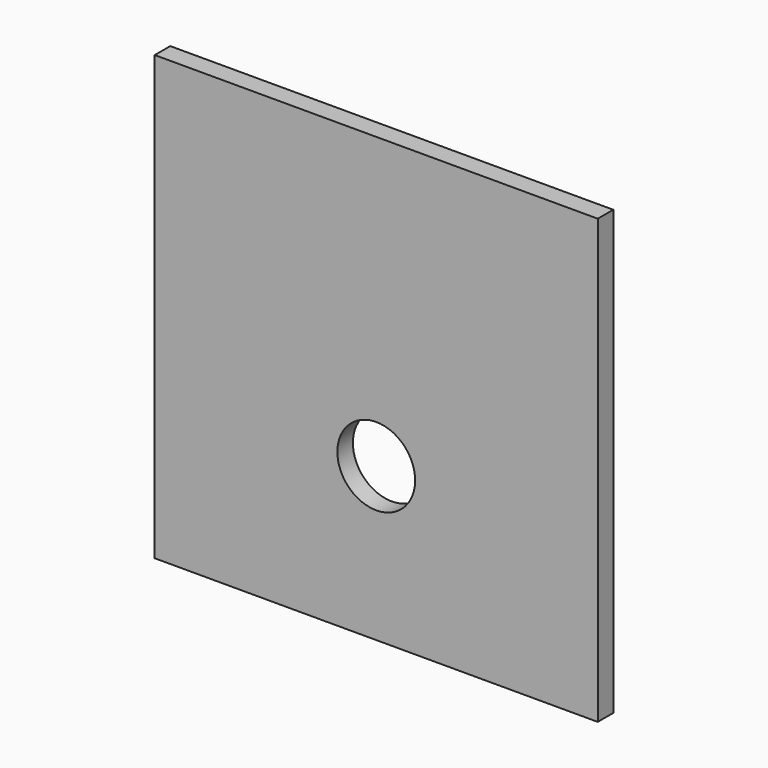
from build123d import *

# Parameters (mm, degrees)
F0_W     = 434
F0_H     = 434
F1_DEPTH = 19
F2_R     = 38.1
F3_DEPTH = 25.4


with BuildPart() as f1:
    # F0 (on Front) → F1 (new body)
    with BuildSketch(Plane.XZ):
        Rectangle(F0_W, F0_H)
    extrude(amount=F1_DEPTH)

    # F2 (on face) → F3 (cut)
    with BuildSketch(Plane.XZ.offset(19)):
        with Locations((0, -67)):
            Circle(F2_R)
    extrude(amount=-F3_DEPTH, mode=Mode.SUBTRACT)


solid = f1.part
